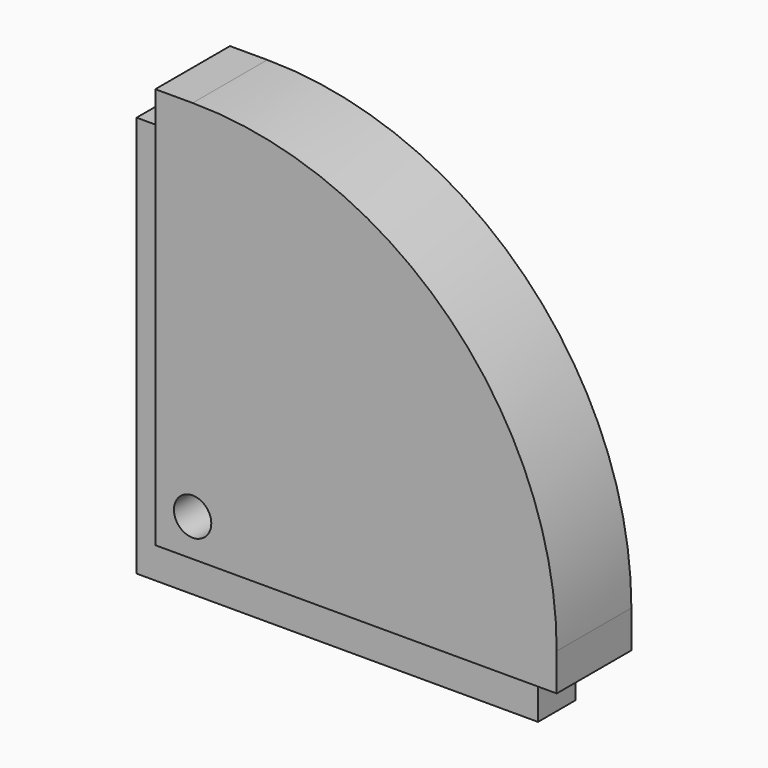
from build123d import *

# Parameters (mm, degrees)
F1_DEPTH      = 5
F0_R          = 2
F2_DEPTH      = 10
F2_DEPTH_BACK = 5
F3_DEPTH      = 10


with BuildPart() as f1:
    # F0 (on Front) → F1 (new body)
    with BuildSketch(Plane.XZ):
        Polygon((0, 43), (0, 0), (43, 0), (43, 10), (10, 10), (10, 43), align=None)
    extrude(amount=-F1_DEPTH)

    # F0 (on Front) → F2 (join, two sides)
    with BuildSketch(Plane.XZ) as f2_sk:
        with BuildLine():
            Line((10, 10), (43, 10))
            Line((43, 10), (43, 14))
            ThreePointArc((43, 14), (34.506097, 34.506097), (14, 43))
            Line((14, 43), (10, 43))
            Line((10, 43), (10, 10))
        make_face()
        with Locations((14, 14)):
            Circle(F0_R, mode=Mode.SUBTRACT)
    extrude(amount=F2_DEPTH)
    extrude(f2_sk.sketch, amount=-F2_DEPTH_BACK)

    # F0 (on Front) → F3 (join)
    with BuildSketch(Plane.XZ):
        with BuildLine():
            Line((43, 14), (43, 10))
            Line((43, 10), (53, 10))
            Line((53, 10), (53, 14))
            ThreePointArc((53, 14), (41.577164, 41.577164), (14, 53))
            Line((14, 53), (10, 53))
            Line((10, 53), (10, 43))
            Line((10, 43), (14, 43))
            ThreePointArc((14, 43), (34.506097, 34.506097), (43, 14))
        make_face()
    extrude(amount=F3_DEPTH)


solid = f1.part
